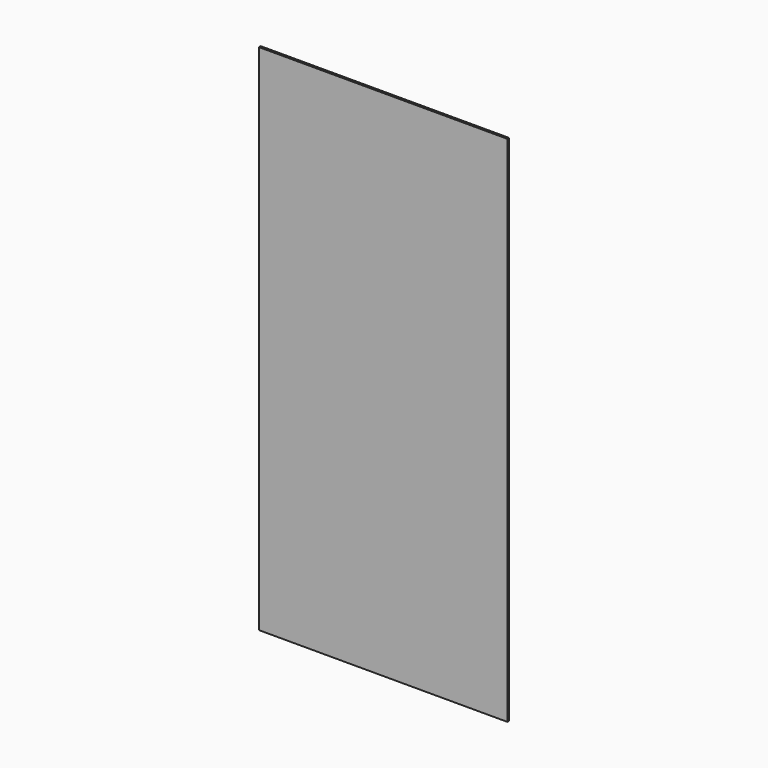
from build123d import *

# Parameters (mm, degrees)
F0_W     = 2.54
F0_H     = 2.54
F1_DEPTH = 0.508


with BuildPart() as f1:
    # F0 (on Front) → F1 (new body)
    with BuildSketch(Plane.XZ):
        with Locations((1.27, 1.27)):
            Rectangle(F0_W, F0_H)
        Polygon((2.54, 2.54), (2.54, 0), (56.134, 0), (56.134, 2.54), (58.674, 2.54), (58.674, 118.618), (56.134, 118.618), (56.134, 121.158), (2.54, 121.158), (2.54, 118.618), (0, 118.618), (0, 2.54), align=None)
        with Locations((57.404, 1.27)):
            Rectangle(F0_W, F0_H)
        with Locations((1.27, 119.888)):
            Rectangle(F0_W, F0_H)
        with Locations((57.404, 119.888)):
            Rectangle(F0_W, F0_H)
    extrude(amount=F1_DEPTH)


solid = f1.part
